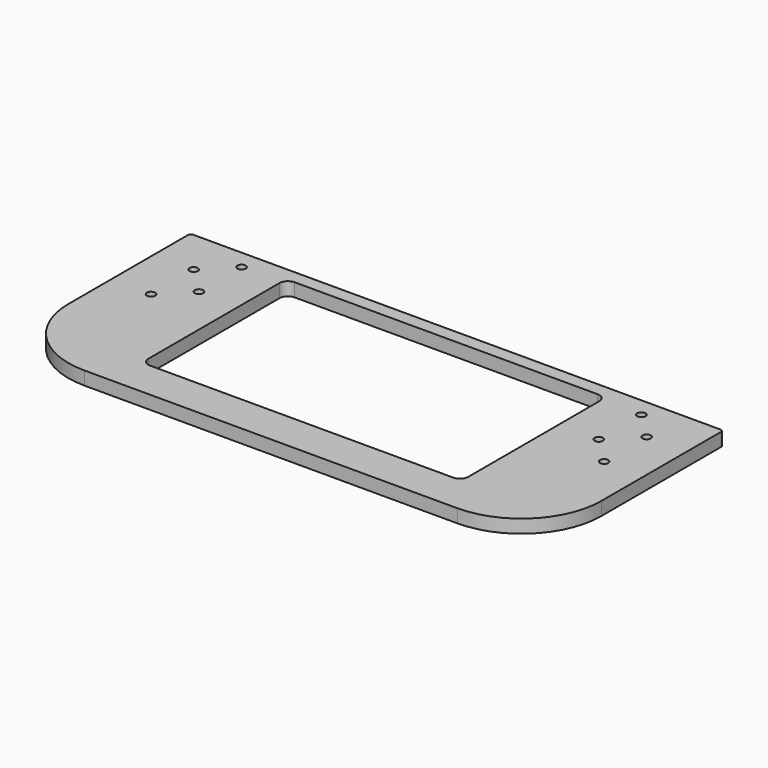
from build123d import *

# Parameters (mm, degrees)
SKETCH_W    = 200
SKETCH_H    = 87.167173
SKETCH_R    = 1.5625
SKETCH_W_2  = 120
SKETCH_H_2  = 67.742155
PAD_DEPTH   = 5
FILLET_R    = 30
FILLET001_R = 3.125
FILLET002_R = 1


with BuildPart() as part:
    # Sketch → Pad (new body)
    with BuildSketch(Plane.XY):
        with Locations((100, -46.416413)):
            Rectangle(SKETCH_W, SKETCH_H)
        with Locations((175, -10)):
            Circle(SKETCH_R, mode=Mode.SUBTRACT)
        with Locations((175, -30)):
            Circle(SKETCH_R, mode=Mode.SUBTRACT)
        with Locations((185, -20)):
            Circle(SKETCH_R, mode=Mode.SUBTRACT)
        with Locations((185, -40)):
            Circle(SKETCH_R, mode=Mode.SUBTRACT)
        with Locations((25, -10)):
            Circle(SKETCH_R, mode=Mode.SUBTRACT)
        with Locations((25, -30)):
            Circle(SKETCH_R, mode=Mode.SUBTRACT)
        with Locations((15, -20)):
            Circle(SKETCH_R, mode=Mode.SUBTRACT)
        with Locations((15, -40)):
            Circle(SKETCH_R, mode=Mode.SUBTRACT)
        with Locations((100, -41.703904)):
            Rectangle(SKETCH_W_2, SKETCH_H_2, mode=Mode.SUBTRACT)
    extrude(amount=PAD_DEPTH)

    # Fillet
    fillet_edges = [part.edges().sort_by_distance(p)[0] for p in [
        (200, -90, 2.5),
        (0, -90, 2.5),
    ]]
    fillet(fillet_edges, radius=FILLET_R)

    # Fillet001
    fillet001_edges = [part.edges().sort_by_distance(p)[0] for p in [
        (40, -7.832827, 2.5),
        (160, -7.832827, 2.5),
        (160, -75.574982, 2.5),
        (40, -75.574982, 2.5),
    ]]
    fillet(fillet001_edges, radius=FILLET001_R)

    # Fillet002
    fillet002_edges = [part.edges().sort_by_distance(p)[0] for p in [
        (0, -2.832827, 2.5),
        (200, -2.832827, 2.5),
    ]]
    fillet(fillet002_edges, radius=FILLET002_R)


solid = part.part
